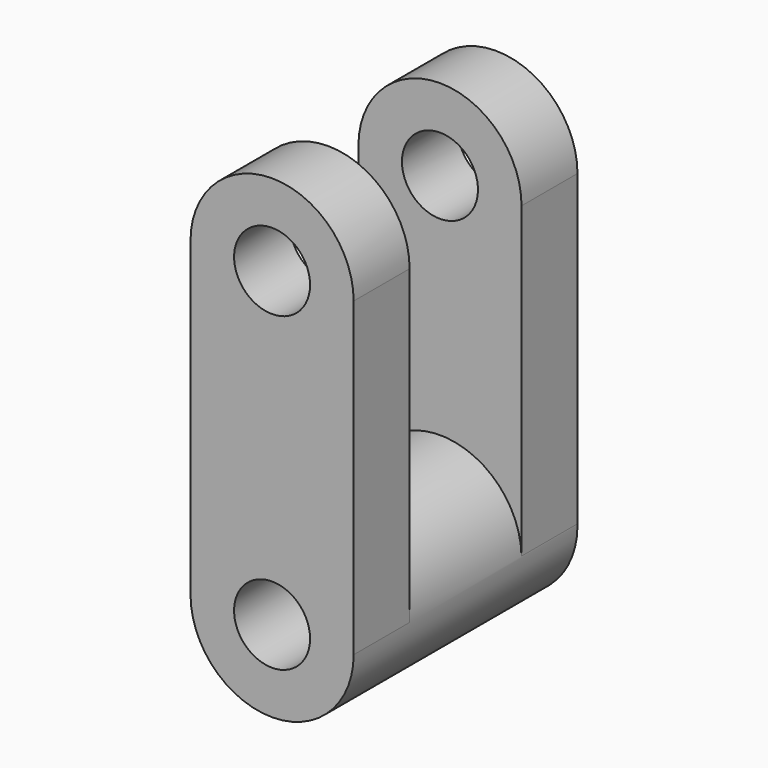
from build123d import *

# Parameters (mm, degrees)
F0_R     = 13.797693
F1_DEPTH = 25.4
F2_R     = 29.61701
F2_R_2   = 13.794222
F3_DEPTH = 101.6
F4_R     = 13.798954
F5_DEPTH = 25.4


with BuildPart() as f1:
    # F0 (on Front) → F1 (new body)
    with BuildSketch(Plane.XZ):
        with BuildLine():
            ThreePointArc((-29.61701, -56.529284), (0, -26.912274), (29.61701, -56.529284))
            Line((29.61701, -56.529284), (29.61701, 56.529284))
            ThreePointArc((29.61701, 56.529284), (0, 86.146293), (-29.61701, 56.529284))
            Line((-29.61701, 56.529284), (-29.61701, -56.529284))
        make_face()
        with Locations((0, 56.529284)):
            Circle(F0_R, mode=Mode.SUBTRACT)
    extrude(amount=-F1_DEPTH)

    # F2 (on face) → F3 (join)
    with BuildSketch(Plane.XZ):
        with Locations((0, -56.529284)):
            Circle(F2_R)
        with Locations((0, -56.529284)):
            Circle(F2_R_2, mode=Mode.SUBTRACT)
    extrude(amount=-F3_DEPTH)

    # F4 (on face) → F5 (join)
    with BuildSketch(Plane(origin=(0, 101.6, 0), x_dir=(-1, 0, 0), z_dir=(0, 1, 0))):
        with BuildLine():
            ThreePointArc((-29.612104, -55.99023), (0, -26.912274), (29.612104, -55.99023))
            Line((29.612104, -55.99023), (29.612104, 55.99023))
            ThreePointArc((29.612104, 55.99023), (0, 85.602334), (-29.612104, 55.99023))
            Line((-29.612104, 55.99023), (-29.612104, -55.99023))
        make_face()
        with Locations((0, 55.99023)):
            Circle(F4_R, mode=Mode.SUBTRACT)
    extrude(amount=-F5_DEPTH)


solid = f1.part
